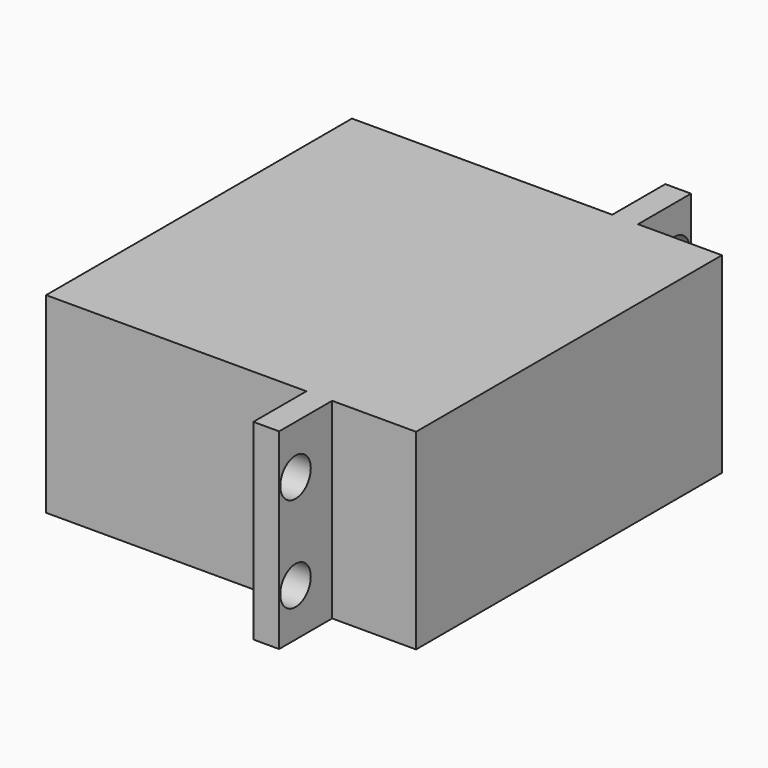
from build123d import *

# Parameters (mm, degrees)
CYLINDER170_R     = 2
CYLINDER170_DEPTH = 20
CYLINDER169_R     = 2
CYLINDER169_DEPTH = 20
CYLINDER167_R     = 2
CYLINDER167_DEPTH = 20
CYLINDER168_R     = 2
CYLINDER168_DEPTH = 20
BOX225_W          = 2.7
BOX225_H          = 54
BOX225_DEPTH      = 20.1
BOX226_W          = 38.8
BOX226_H          = 40.1
BOX226_DEPTH      = 20.1


with BuildPart() as cylinder170:
    # Cylinder170 → Cylinder170 (new body)
    with BuildSketch(Plane(origin=(9.4, -71.8, 5), x_dir=(0, 0, -1), z_dir=(1, 0, 0))):
        Circle(CYLINDER170_R)
    extrude(amount=CYLINDER170_DEPTH)


with BuildPart() as cylinder169:
    # Cylinder169 → Cylinder169 (new body)
    with BuildSketch(Plane(origin=(9.4, -71.8, 15), x_dir=(0, 0, -1), z_dir=(1, 0, 0))):
        Circle(CYLINDER169_R)
    extrude(amount=CYLINDER169_DEPTH)


with BuildPart() as cylinder167:
    # Cylinder167 → Cylinder167 (new body)
    with BuildSketch(Plane(origin=(9.4, -22.1, 5), x_dir=(0, 0, -1), z_dir=(1, 0, 0))):
        Circle(CYLINDER167_R)
    extrude(amount=CYLINDER167_DEPTH)


with BuildPart() as cylinder168:
    # Cylinder168 → Cylinder168 (new body)
    with BuildSketch(Plane(origin=(9.4, -22.1, 15), x_dir=(0, 0, -1), z_dir=(1, 0, 0))):
        Circle(CYLINDER168_R)
    extrude(amount=CYLINDER168_DEPTH)


with BuildPart() as box225:
    # Box225 → Box225 (new body)
    with BuildSketch(Plane(origin=(109.3, -99.95, 0), x_dir=(1, 0, 0), z_dir=(0, 0, 1))):
        with Locations((1.35, 27)):
            Rectangle(BOX225_W, BOX225_H)
    extrude(amount=BOX225_DEPTH)


with BuildPart() as cut123:
    # Box226 → Box226 (new body)
    with BuildSketch(Plane(origin=(82, -93, 0), x_dir=(1, 0, 0), z_dir=(0, 0, 1))):
        with Locations((19.4, 20.05)):
            Rectangle(BOX226_W, BOX226_H)
    extrude(amount=BOX226_DEPTH)

    # Fusion086: union Box225
    add(box225.part)


with BuildPart() as cut123_1:
    # Fusion086 placement: moved
    add(cut123.part.moved(Location((-82.6, 26, 0))))

    # Cut120: cut Cylinder168
    add(cylinder168.part, mode=Mode.SUBTRACT)

    # Cut121: cut Cylinder167
    add(cylinder167.part, mode=Mode.SUBTRACT)

    # Cut122: cut Cylinder169
    add(cylinder169.part, mode=Mode.SUBTRACT)

    # Cut123: cut Cylinder170
    add(cylinder170.part, mode=Mode.SUBTRACT)


with BuildPart() as cut123_2:
    # Cut123 placement: moved
    add(cut123_1.part.moved(Location((-4, 10, 0))))


solid = cut123_2.part
